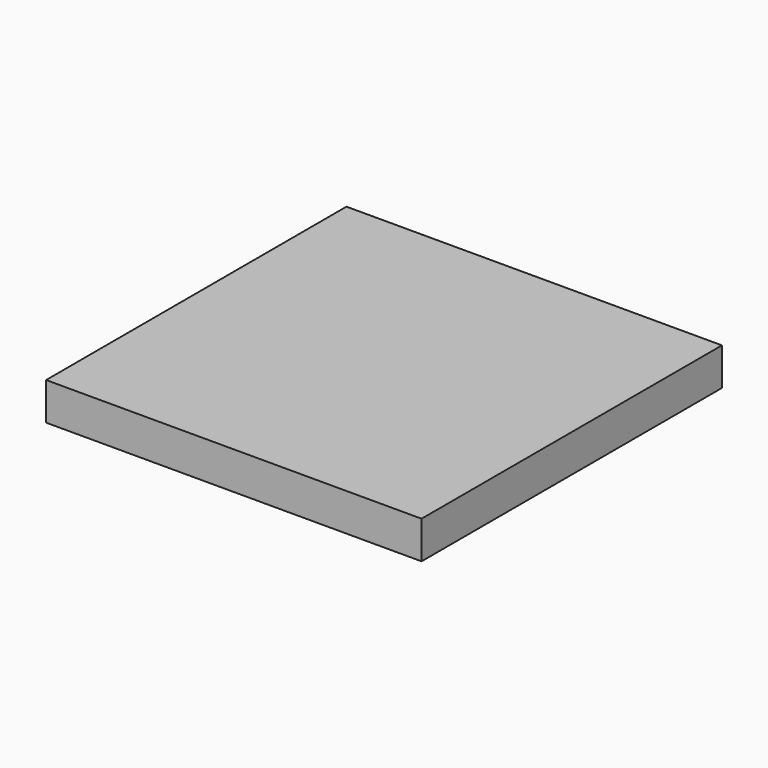
from build123d import *

# Parameters (mm, degrees)
SKETCH_W  = 30
SKETCH_H  = 30
PAD_DEPTH = 3


with BuildPart() as part:
    # Sketch → Pad (new body)
    with BuildSketch(Plane.XY):
        Rectangle(SKETCH_W, SKETCH_H)
    extrude(amount=PAD_DEPTH)


solid = part.part
